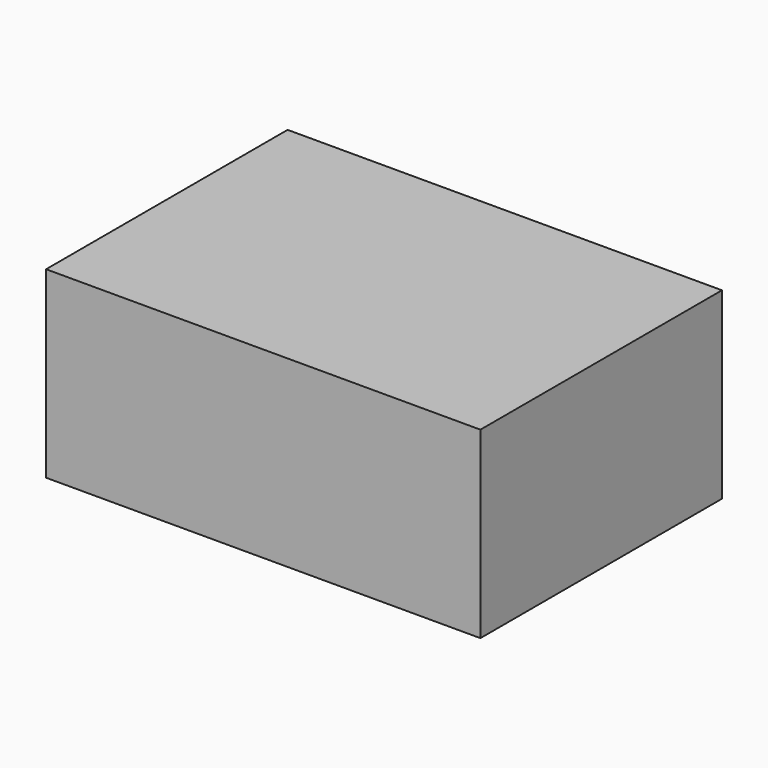
from build123d import *

# Parameters (mm, degrees)
F0_W      = 176.54556
F0_H      = 107.347808
F1_DEPTH  = 127
F1_FACE_W = 176.54556
F1_FACE_H = 107.347808
F2_DEPTH  = 127


with BuildPart() as f1:
    # F0 (on Right) → F1 (new body)
    with BuildSketch(Plane.YZ):
        Rectangle(F0_W, F0_H)
    extrude(amount=-F1_DEPTH)

    # F1_face (on face) → F2 (join)
    with BuildSketch(Plane.YZ):
        Rectangle(F1_FACE_W, F1_FACE_H)
    extrude(amount=F2_DEPTH)


solid = f1.part
